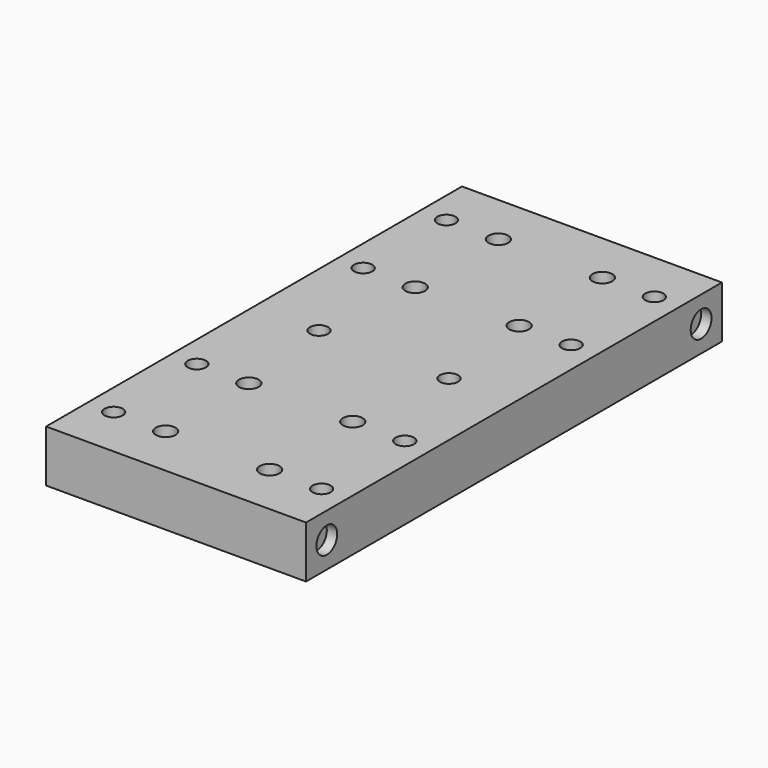
from build123d import *

# Parameters (mm, degrees)
SKETCH133_W     = 50
SKETCH133_H     = 100
SKETCH133_R     = 1.9
SKETCH133_R_2   = 1.75
PAD079_DEPTH    = 10
SKETCH143_R     = 2.5
POCKET049_DEPTH = 2
SKETCH149_R     = 1.73
POCKET051_DEPTH = 10


with BuildPart() as part:
    # Sketch133 → Pad079 (new body)
    with BuildSketch(Plane.XY):
        Rectangle(SKETCH133_W, SKETCH133_H)
        with Locations((-10, 40)):
            Circle(SKETCH133_R, mode=Mode.SUBTRACT)
        with Locations((10, 40)):
            Circle(SKETCH133_R, mode=Mode.SUBTRACT)
        with Locations((10, 20)):
            Circle(SKETCH133_R, mode=Mode.SUBTRACT)
        with Locations((-10, 20)):
            Circle(SKETCH133_R, mode=Mode.SUBTRACT)
        with Locations((-10, -20)):
            Circle(SKETCH133_R, mode=Mode.SUBTRACT)
        with Locations((10, -20)):
            Circle(SKETCH133_R, mode=Mode.SUBTRACT)
        with Locations((10, -40)):
            Circle(SKETCH133_R, mode=Mode.SUBTRACT)
        with Locations((-10, -40)):
            Circle(SKETCH133_R, mode=Mode.SUBTRACT)
        with Locations((12.5, 0)):
            Circle(SKETCH133_R_2, mode=Mode.SUBTRACT)
        with Locations((-12.5, 0)):
            Circle(SKETCH133_R_2, mode=Mode.SUBTRACT)
        with Locations((20, 40)):
            Circle(SKETCH133_R_2, mode=Mode.SUBTRACT)
        with Locations((20, 20)):
            Circle(SKETCH133_R_2, mode=Mode.SUBTRACT)
        with Locations((-20, 40)):
            Circle(SKETCH133_R_2, mode=Mode.SUBTRACT)
        with Locations((-20, 20)):
            Circle(SKETCH133_R_2, mode=Mode.SUBTRACT)
        with Locations((-20, -20)):
            Circle(SKETCH133_R_2, mode=Mode.SUBTRACT)
        with Locations((-20, -40)):
            Circle(SKETCH133_R_2, mode=Mode.SUBTRACT)
        with Locations((20, -20)):
            Circle(SKETCH133_R_2, mode=Mode.SUBTRACT)
        with Locations((20, -40)):
            Circle(SKETCH133_R_2, mode=Mode.SUBTRACT)
    extrude(amount=PAD079_DEPTH)

    # Sketch143 → Pocket049 (cut)
    with BuildSketch(Plane.YZ.offset(25)):
        with Locations((-45, 5)):
            Circle(SKETCH143_R)
        with Locations((45, 5)):
            Circle(SKETCH143_R)
    extrude(amount=-POCKET049_DEPTH, mode=Mode.SUBTRACT)

    # Sketch149 → Pocket051 (cut)
    with BuildSketch(Plane.YZ.offset(-25)):
        with Locations((-10, 5)):
            Circle(SKETCH149_R)
        with Locations((10, 5)):
            Circle(SKETCH149_R)
    extrude(amount=POCKET051_DEPTH, mode=Mode.SUBTRACT)


solid = part.part
